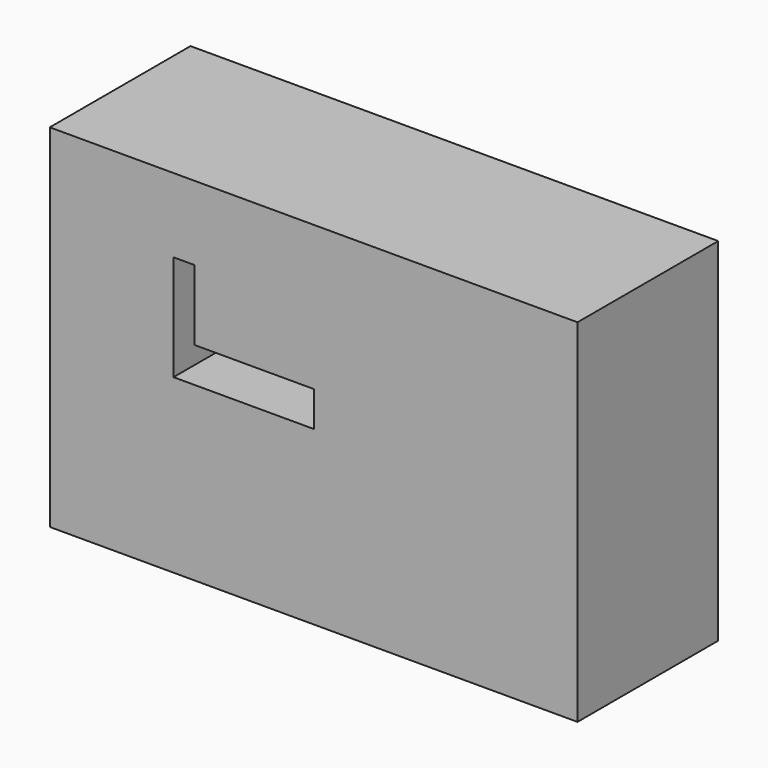
from build123d import *

# Parameters (mm, degrees)
F0_W     = 75
F0_H     = 50
F1_DEPTH = 25
F3_DEPTH = 25


with BuildPart() as f1:
    # F0 (on Front) → F1 (new body)
    with BuildSketch(Plane.XZ):
        with Locations((-2.86842, 7.68421)):
            Rectangle(F0_W, F0_H)
    extrude(amount=F1_DEPTH)

    # F2 (on Front) → F3 (cut)
    with BuildSketch(Plane.XZ):
        Polygon((-19.781306, 22.144739), (-22.781306, 22.144739), (-22.781306, 7.144739), (-2.781306, 7.144739), (-2.781306, 12.144739), (-19.781306, 12.144739), align=None)
    extrude(amount=F3_DEPTH, mode=Mode.SUBTRACT)


solid = f1.part
